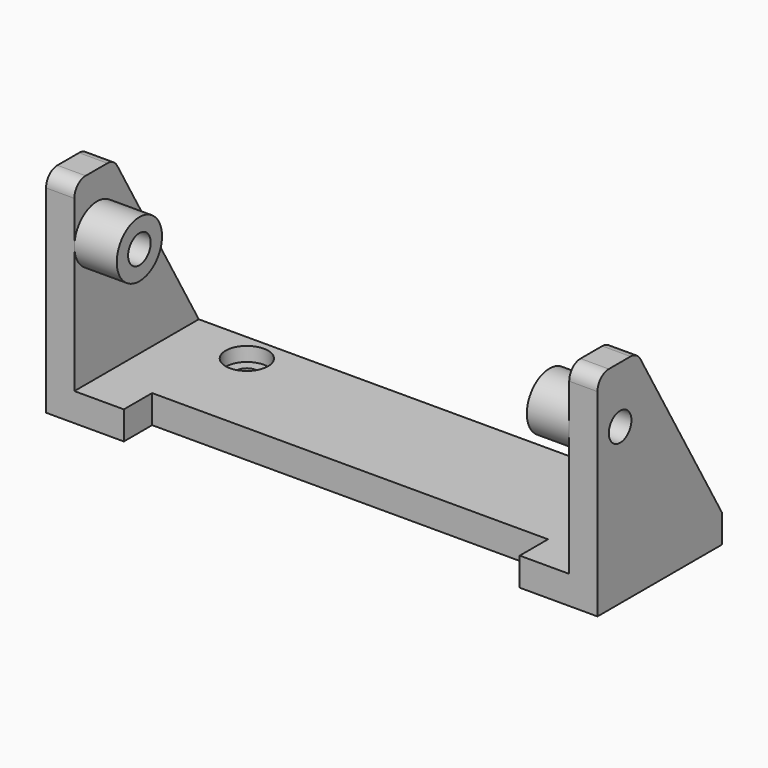
from build123d import *

# Parameters (mm, degrees)
SKETCH_W        = 70
SKETCH_H        = 22
PAD_DEPTH       = 4
SKETCH001_R     = 1.5
POCKET_DEPTH    = 7
PAD001_DEPTH    = 4
PAD002_DEPTH    = 4
SKETCH004_R     = 4
SKETCH004_R_2   = 2
PAD003_DEPTH    = 6
SKETCH005_R     = 4
SKETCH005_R_2   = 2
PAD004_DEPTH    = 6
SKETCH006_R     = 2
POCKET001_DEPTH = 80
SKETCH007_R     = 3
POCKET002_DEPTH = 2
SKETCH008_W     = 56
SKETCH008_H     = 5
POCKET003_DEPTH = 4
FILLET_R        = 2
FILLET001_R     = 2
FILLET002_R     = 2
FILLET003_R     = 2


with BuildPart() as part:
    # Sketch → Pad (new body)
    with BuildSketch(Plane.XY):
        with Locations((35, 11)):
            Rectangle(SKETCH_W, SKETCH_H)
    extrude(amount=PAD_DEPTH)

    # Sketch001 → Pocket (cut)
    with BuildSketch(Plane.XY.offset(4)):
        with Locations((10, 18)):
            Circle(SKETCH001_R)
        with Locations((60, 18)):
            Circle(SKETCH001_R)
    extrude(amount=-POCKET_DEPTH, mode=Mode.SUBTRACT)

    # Sketch002 → Pad001 (new body)
    with BuildSketch(Plane.YZ.offset(70)):
        Polygon((0, 30), (0, 0), (22, 0), (22, 4), (6.988893, 30), align=None)
    extrude(amount=PAD001_DEPTH)

    # Sketch003 → Pad002 (new body)
    with BuildSketch(Plane(origin=(0, 0, 0), x_dir=(0, -1, 0), z_dir=(-1, 0, 0))):
        Polygon((-22, 0), (0, 0), (0, 30), (-6.988893, 30), (-22, 4), align=None)
    extrude(amount=PAD002_DEPTH)

    # Sketch004 → Pad003 (new body)
    with BuildSketch(Plane(origin=(70, 0, 0), x_dir=(0, -1, 0), z_dir=(-1, 0, 0))):
        with Locations((-4, 22)):
            Circle(SKETCH004_R)
        with Locations((-4, 22)):
            Circle(SKETCH004_R_2, mode=Mode.SUBTRACT)
    extrude(amount=PAD003_DEPTH)

    # Sketch005 → Pad004 (new body)
    with BuildSketch(Plane.YZ):
        with Locations((4, 22)):
            Circle(SKETCH005_R)
        with Locations((4, 22)):
            Circle(SKETCH005_R_2, mode=Mode.SUBTRACT)
    extrude(amount=PAD004_DEPTH)

    # Sketch006 → Pocket001 (cut)
    with BuildSketch(Plane.YZ.offset(74)):
        with Locations((4, 22)):
            Circle(SKETCH006_R)
    extrude(amount=-POCKET001_DEPTH, mode=Mode.SUBTRACT)

    # Sketch007 → Pocket002 (cut)
    with BuildSketch(Plane.XY.offset(4)):
        with Locations((10, 18)):
            Circle(SKETCH007_R)
        with Locations((60, 18)):
            Circle(SKETCH007_R)
    extrude(amount=-POCKET002_DEPTH, mode=Mode.SUBTRACT)

    # Sketch008 → Pocket003 (cut)
    with BuildSketch(Plane.XY.offset(4)):
        with Locations((35, 2.5)):
            Rectangle(SKETCH008_W, SKETCH008_H)
    extrude(amount=-POCKET003_DEPTH, mode=Mode.SUBTRACT)

    # Fillet
    fillet_edges = [part.edges().sort_by_distance(p)[0] for p in [
        (-2, 6.988893, 30),
    ]]
    fillet(fillet_edges, radius=FILLET_R)

    # Fillet001
    fillet001_edges = [part.edges().sort_by_distance(p)[0] for p in [
        (-2, 0, 30),
    ]]
    fillet(fillet001_edges, radius=FILLET001_R)

    # Fillet002
    fillet002_edges = [part.edges().sort_by_distance(p)[0] for p in [
        (72, 6.988893, 30),
    ]]
    fillet(fillet002_edges, radius=FILLET002_R)

    # Fillet003
    fillet003_edges = [part.edges().sort_by_distance(p)[0] for p in [
        (72, 0, 30),
    ]]
    fillet(fillet003_edges, radius=FILLET003_R)


solid = part.part
